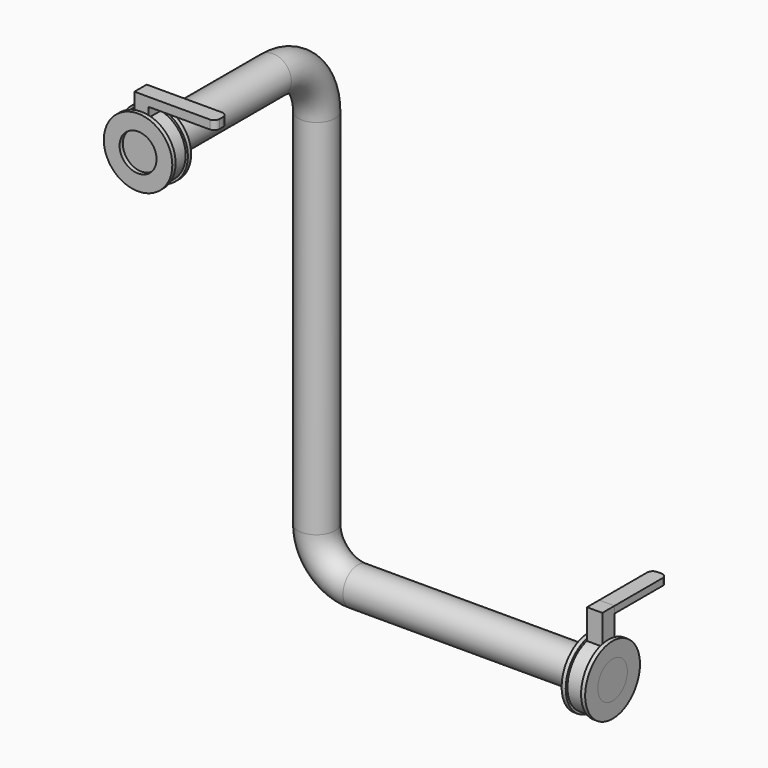
from build123d import *

# Parameters (mm, degrees)
F0_R      = 125
F0_R_2    = 67.5
F6_DEPTH  = 15
F5_R      = 125
F5_R_2    = 67.5
F7_DEPTH  = 15
F8_R      = 117
F8_R_2    = 67.5
F9_DEPTH  = 56
F10_R     = 125
F10_R_2   = 117
F10_R_3   = 67.5
F11_DEPTH = 15
F13_DEPTH = 56
F15_DEPTH = 32
F16_R     = 117
F16_R_2   = 67.5
F17_DEPTH = 56
F18_R     = 125
F18_R_2   = 117
F18_R_3   = 67.5
F19_DEPTH = 15
F21_DEPTH = 56
F23_DEPTH = 25


with BuildPart() as f6:
    # F0 (on Front) → F6 (new body)
    with BuildSketch(Plane.XZ):
        Circle(F0_R)
        Circle(F0_R_2, mode=Mode.SUBTRACT)
    extrude(amount=F6_DEPTH)

    # F8 (on face) → F9 (join)
    with BuildSketch(Plane.XZ):
        Circle(F8_R)
        Circle(F8_R_2, mode=Mode.SUBTRACT)
    extrude(amount=-F9_DEPTH)


with BuildPart() as f7:
    # F5 (on offset) → F7 (new body)
    with BuildSketch(Plane.YZ.offset(1080)):
        with Locations((800, -1675)):
            Circle(F5_R)
        with Locations((800, -1675)):
            Circle(F5_R_2, mode=Mode.SUBTRACT)
    extrude(amount=-F7_DEPTH)


with BuildPart() as f11:
    # F10 (on face) → F11 (new body)
    with BuildSketch(Plane(origin=(0, 56, 0), x_dir=(-1, 0, 0), z_dir=(0, 1, 0))):
        Circle(F10_R)
        Circle(F10_R_2, mode=Mode.SUBTRACT)
        Circle(F10_R_2)
        Circle(F10_R_3, mode=Mode.SUBTRACT)
    extrude(amount=F11_DEPTH)


with BuildPart() as f13:
    # F12 (on face) → F13 (new body)
    with BuildSketch(Plane.XZ):
        with BuildLine():
            Line((26.3251196593, 122.1965141685), (26.3251196593, 181.1019480228))
            Line((26.3251196593, 181.1019480228), (-25.204917416, 181.1019480228))
            Line((-25.204917416, 181.1019480228), (-25.204917416, 122.4324799147))
            ThreePointArc((-25.204917416, 122.4324799147), (0.5723925444, 124.9986894602), (26.3251196593, 122.1965141685))
        make_face()
        with BuildLine():
            Line((26.3251196593, 62.1549521352), (26.3251196593, 122.1965141685))
            ThreePointArc((26.3251196593, 122.1965141685), (0.5723925444, 124.9986894602), (-25.204917416, 122.4324799147))
            Line((-25.204917416, 122.4324799147), (-25.204917416, 62.6175864918))
            ThreePointArc((-25.204917416, 62.6175864918), (0.605987544, 67.4972797903), (26.3251196593, 62.1549521352))
        make_face()
    extrude(amount=-F13_DEPTH)

    # F14 (on face) → F15 (join)
    with BuildSketch(Plane.XY.offset(181.1019480228)):
        with BuildLine():
            Line((249.795082584, 56), (26.3251196593, 56))
            Line((26.3251196593, 56), (26.3251196593, 0))
            Line((26.3251196593, 0), (249.795082584, 0))
            ThreePointArc((249.795082584, 0), (263.9372182078, 5.8578643763), (269.795082584, 20))
            Line((269.795082584, 20), (269.795082584, 36))
            ThreePointArc((269.795082584, 36), (263.9372182078, 50.1421356237), (249.795082584, 56))
        make_face()
    extrude(amount=-F15_DEPTH)


with BuildPart() as f17:
    # F16 (on face) → F17 (new body)
    with BuildSketch(Plane(origin=(1065, 0, 0), x_dir=(0, -1, 0), z_dir=(-1, 0, 0))):
        with Locations((-800, -1675)):
            Circle(F16_R)
        with Locations((-800, -1675)):
            Circle(F16_R_2, mode=Mode.SUBTRACT)
    extrude(amount=F17_DEPTH)


with BuildPart() as f19:
    # F18 (on face) → F19 (new body)
    with BuildSketch(Plane(origin=(1009, 0, 0), x_dir=(0, -1, 0), z_dir=(-1, 0, 0))):
        with Locations((-800, -1675)):
            Circle(F18_R)
        with Locations((-800, -1675)):
            Circle(F18_R_2, mode=Mode.SUBTRACT)
        with Locations((-800, -1675)):
            Circle(F18_R_2)
        with Locations((-800, -1675)):
            Circle(F18_R_3, mode=Mode.SUBTRACT)
    extrude(amount=F19_DEPTH)


with BuildPart() as f21:
    # F20 (on face) → F21 (new body)
    with BuildSketch(Plane(origin=(1065, 0, 0), x_dir=(0, -1, 0), z_dir=(-1, 0, 0))):
        with BuildLine():
            Line((-772, -1453), (-828, -1453))
            Line((-828, -1453), (-828, -1553.1763569745))
            ThreePointArc((-828, -1553.1763569745), (-800, -1550), (-772, -1553.1763569745))
            Line((-772, -1553.1763569745), (-772, -1453))
        make_face()
        with BuildLine():
            ThreePointArc((-772, -1553.1763569745), (-800, -1550), (-828, -1553.1763569745))
            Line((-828, -1553.1763569745), (-828, -1613.5813546226))
            ThreePointArc((-828, -1613.5813546226), (-800, -1607.5), (-772, -1613.5813546226))
            Line((-772, -1613.5813546226), (-772, -1553.1763569745))
        make_face()
    extrude(amount=F21_DEPTH)


with BuildPart() as f23:
    # F22 (on face) → F23 (new body)
    with BuildSketch(Plane.XY.offset(-1453)):
        with BuildLine():
            Line((1009, 1047), (1009, 828))
            Line((1009, 828), (1065, 828))
            Line((1065, 828), (1065, 1047))
            ThreePointArc((1065, 1047), (1059.1421356237, 1061.1421356237), (1045, 1067))
            Line((1045, 1067), (1029, 1067))
            ThreePointArc((1029, 1067), (1014.8578643763, 1061.1421356237), (1009, 1047))
        make_face()
    extrude(amount=-F23_DEPTH)


with BuildPart() as f24:
    # F24: sweep along a path in F3, F1
    with BuildLine(Plane.XZ.offset(-800)) as f24_path:
        Line((1080, -1675), (150, -1675))
        ThreePointArc((150, -1675), (43.933982822, -1631.066017178), (0, -1525))
        Line((0, -1525), (0, -200))
    with BuildLine(Plane.YZ) as f24_path_2:
        ThreePointArc((800, -200), (741.4213562373, -58.5786437627), (600, 0))
        Line((600, 0), (0, 0))
    # F5 (on offset) → F24 (sweep)
    with BuildSketch(Plane.YZ.offset(1080)):
        with Locations((800, -1675)):
            Circle(F5_R_2)
    sweep(path=f24_path.line + f24_path_2.line)


solid = Compound([f6.part, f7.part, f11.part, f13.part, f17.part, f19.part, f21.part, f23.part, f24.part])
